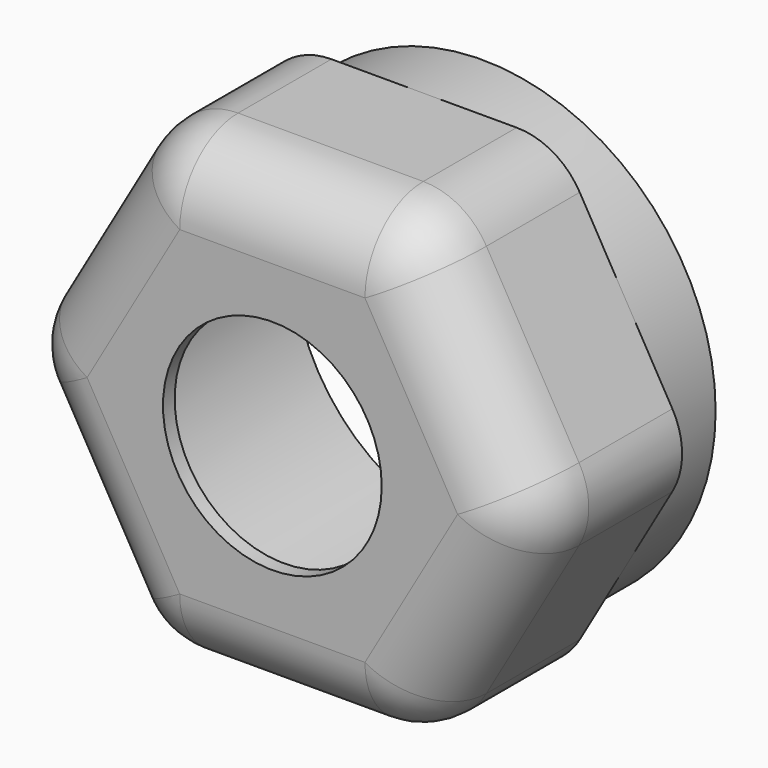
from build123d import *

# Parameters (mm, degrees)
F0_R     = 16
F0_R_2   = 13
F1_DEPTH = 5
F2_R     = 13
F3_DEPTH = 13
F4_R     = 7.5
F5_DEPTH = 1
F6_R     = 5


with BuildPart() as f1:
    # F0 (on Front) → F1 (new body)
    with BuildSketch(Plane.XZ):
        Circle(F0_R)
        Circle(F0_R_2, mode=Mode.SUBTRACT)
    extrude(amount=F1_DEPTH)

    # F2 (on face) → F3 (join)
    with BuildSketch(Plane.XZ.offset(5)):
        with BuildLine():
            Line((6.3508529611, 16), (-6.3508529611, 16))
            ThreePointArc((-6.3508529611, 16), (-8.8508529611, 15.3301270189), (-10.68097998, 13.5))
            Line((-10.68097998, 13.5), (-17.0318329411, 2.5))
            ThreePointArc((-17.0318329411, 2.5), (-17.7017059222, 0), (-17.0318329411, -2.5))
            Line((-17.0318329411, -2.5), (-10.68097998, -13.5))
            ThreePointArc((-10.68097998, -13.5), (-8.8508529611, -15.3301270189), (-6.3508529611, -16))
            Line((-6.3508529611, -16), (6.3508529611, -16))
            ThreePointArc((6.3508529611, -16), (8.8508529611, -15.3301270189), (10.68097998, -13.5))
            Line((10.68097998, -13.5), (17.0318329411, -2.5))
            ThreePointArc((17.0318329411, -2.5), (17.7017059222, 0), (17.0318329411, 2.5))
            Line((17.0318329411, 2.5), (10.68097998, 13.5))
            ThreePointArc((10.68097998, 13.5), (8.8508529611, 15.3301270189), (6.3508529611, 16))
        make_face()
        Circle(F2_R, mode=Mode.SUBTRACT)
    extrude(amount=F3_DEPTH)

    # F4 (on face) → F5 (join)
    with BuildSketch(Plane.XZ.offset(18)):
        with BuildLine():
            Line((6.3508529611, 16), (-6.3508529611, 16))
            ThreePointArc((-6.3508529611, 16), (-8.8508529611, 15.3301270189), (-10.68097998, 13.5))
            Line((-10.68097998, 13.5), (-17.0318329411, 2.5))
            ThreePointArc((-17.0318329411, 2.5), (-17.7017059222, 0), (-17.0318329411, -2.5))
            Line((-17.0318329411, -2.5), (-10.68097998, -13.5))
            ThreePointArc((-10.68097998, -13.5), (-8.8508529611, -15.3301270189), (-6.3508529611, -16))
            Line((-6.3508529611, -16), (6.3508529611, -16))
            ThreePointArc((6.3508529611, -16), (8.8508529611, -15.3301270189), (10.68097998, -13.5))
            Line((10.68097998, -13.5), (17.0318329411, -2.5))
            ThreePointArc((17.0318329411, -2.5), (17.7017059222, 0), (17.0318329411, 2.5))
            Line((17.0318329411, 2.5), (10.68097998, 13.5))
            ThreePointArc((10.68097998, 13.5), (8.8508529611, 15.3301270189), (6.3508529611, 16))
        make_face()
        Circle(F4_R, mode=Mode.SUBTRACT)
    extrude(amount=-F5_DEPTH)

    # F6
    f6_edges = [f1.edges().sort_by_distance(p)[0] for p in [
        (13.856406, -18, 8),
    ]]
    fillet(f6_edges, radius=F6_R)


solid = f1.part
